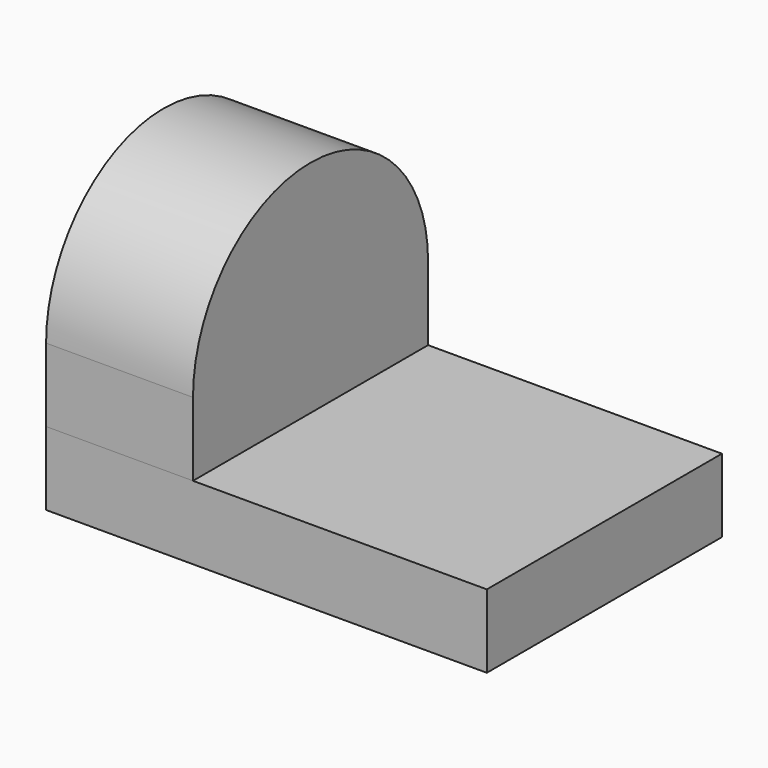
from build123d import *

# Parameters (mm, degrees)
F0_W     = 101.6
F0_H     = 25.4
F1_DEPTH = 152.4
F3_DEPTH = 50.8


with BuildPart() as f1:
    # F0 (on Right) → F1 (new body)
    with BuildSketch(Plane.YZ):
        with Locations((50.8, 12.7)):
            Rectangle(F0_W, F0_H)
    extrude(amount=F1_DEPTH)


with BuildPart() as f3:
    # F2 (on face) → F3 (new body)
    with BuildSketch(Plane(origin=(0, 0, 0), x_dir=(0, -1, 0), z_dir=(-1, 0, 0))):
        with BuildLine():
            Line((0, 25.4), (0, 50.8))
            ThreePointArc((0, 50.8), (-50.8, 101.6), (-101.6, 50.8))
            Line((-101.6, 50.8), (-101.6, 25.4))
            Line((-101.6, 25.4), (0, 25.4))
        make_face()
    extrude(amount=-F3_DEPTH)


solid = Compound([f1.part, f3.part])
